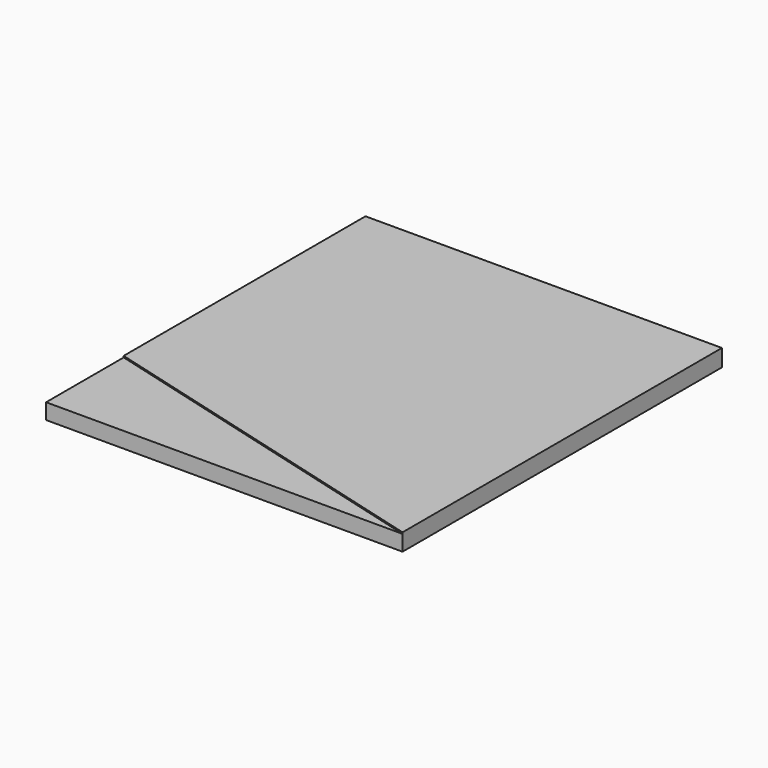
from build123d import *

# Parameters (mm, degrees)
PAD_DEPTH    = 12
POCKET_DEPTH = 1


with BuildPart() as part:
    # Sketch → Pad (new body)
    with BuildSketch(Plane.XY):
        Polygon((0, 0), (0, 140), (250, 140), (250, -140), (0, -140), align=None)
    extrude(amount=PAD_DEPTH)

    # Sketch002 (on Face7 of Pad) → Pocket (cut)
    with BuildSketch(Plane.XY.offset(12)):
        Polygon((0, -140), (0, -71.973152), (250, -140), align=None)
    extrude(amount=-POCKET_DEPTH, mode=Mode.SUBTRACT)


solid = part.part
